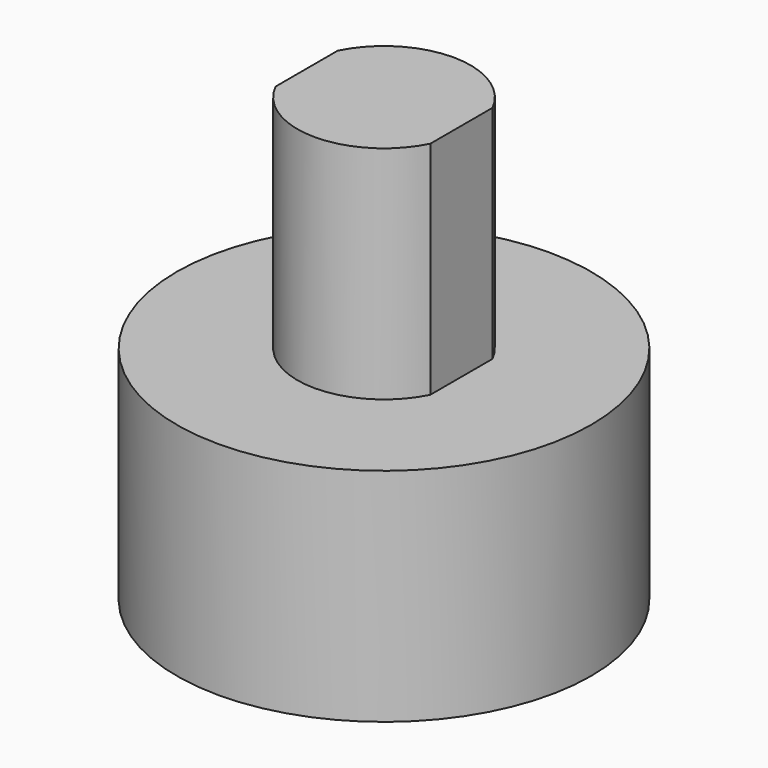
from build123d import *

# Parameters (mm, degrees)
F0_R     = 11.25
F1_DEPTH = 12
F3_DEPTH = 12


with BuildPart() as f1:
    # F0 (on Top) → F1 (new body)
    with BuildSketch(Plane.XY):
        Circle(F0_R)
    extrude(amount=F1_DEPTH)

    # F2 (on face) → F3 (join)
    with BuildSketch(Plane.XY.offset(12)):
        with BuildLine():
            Line((4.2, -2.109502), (4.2, 2.109502))
            ThreePointArc((4.2, 2.109502), (0, 4.7), (-4.2, 2.109502))
            Line((-4.2, 2.109502), (-4.2, -2.109502))
            ThreePointArc((-4.2, -2.109502), (0, -4.7), (4.2, -2.109502))
        make_face()
    extrude(amount=F3_DEPTH)


solid = f1.part
